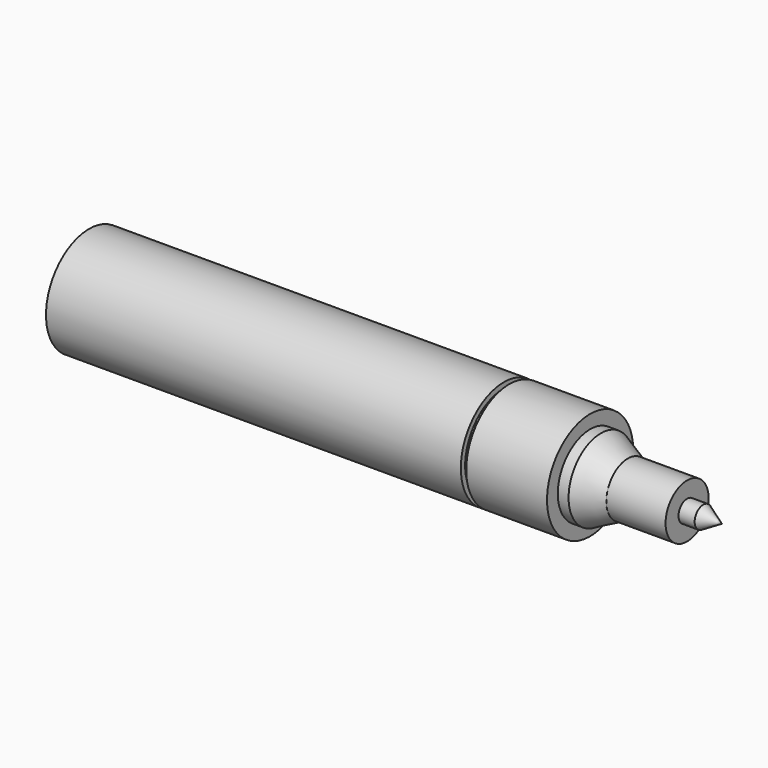
from build123d import *


with BuildPart() as part:
    # Sketch → Revolution (revolve)
    with BuildSketch(Plane.XY):
        Polygon((0, 0), (0, 10), (77, 10), (77, 9), (78, 9), (78, 10), (93, 10), (93, 7.5), (95, 7.5), (100, 5), (111, 5), (111, 2), (114, 2), (117.464102, 0), align=None)
    revolve(axis=Axis((0, 0, 0), (1, 0, 0)))


solid = part.part
